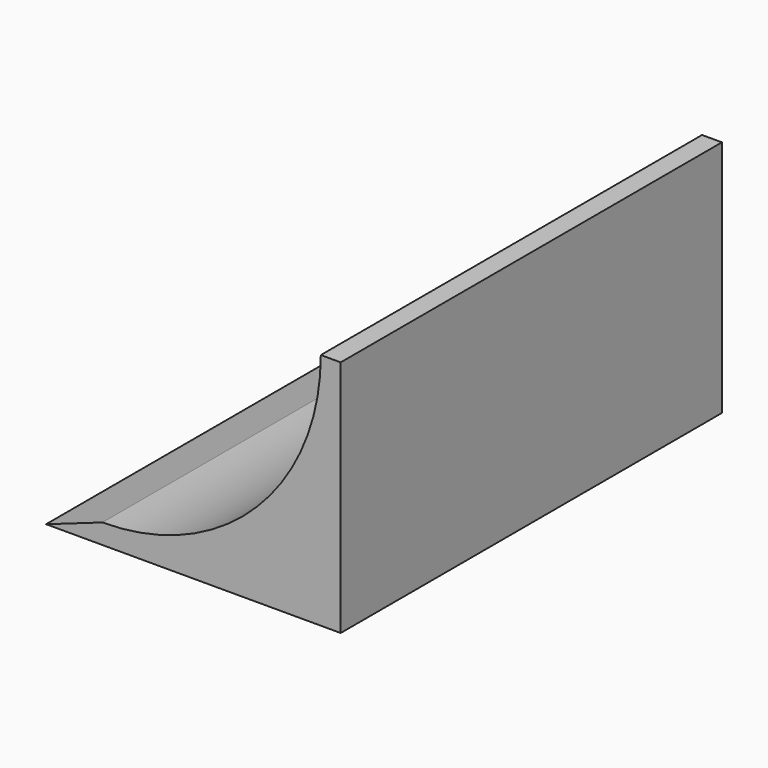
from build123d import *

# Parameters (mm, degrees)
F1_DEPTH = 76.2
F2_DEPTH = 76.2


with BuildPart() as f1:
    # F0 (on Front) → F1 (new body)
    with BuildSketch(Plane.XZ):
        with BuildLine():
            Line((38.1, 35.716653), (31.75, 35.716653))
            ThreePointArc((31.75, 35.716653), (11.291409, -13.674756), (-38.1, -34.133347))
            Line((-38.1, -34.133347), (-56.106489, -40.483347))
            Line((-56.106489, -40.483347), (-38.1, -40.483347))
            Line((-38.1, -40.483347), (38.1, -40.483347))
            Line((38.1, -40.483347), (38.1, 35.716653))
        make_face()
    extrude(amount=F1_DEPTH)

    # F1_face (on face) → F2 (join)
    with BuildSketch(Plane(origin=(14.70589, -76.2, -19.342858), x_dir=(1, 0, 0), z_dir=(0, -1, 0))):
        with BuildLine():
            Line((23.39411, 55.059511), (17.04411, 55.059511))
            ThreePointArc((17.04411, 55.059511), (-3.414481, 5.668102), (-52.80589, -14.790489))
            Line((-52.80589, -14.790489), (-70.812379, -21.140489))
            Line((-70.812379, -21.140489), (23.39411, -21.140489))
            Line((23.39411, -21.140489), (23.39411, 55.059511))
        make_face()
    extrude(amount=F2_DEPTH)


solid = f1.part
